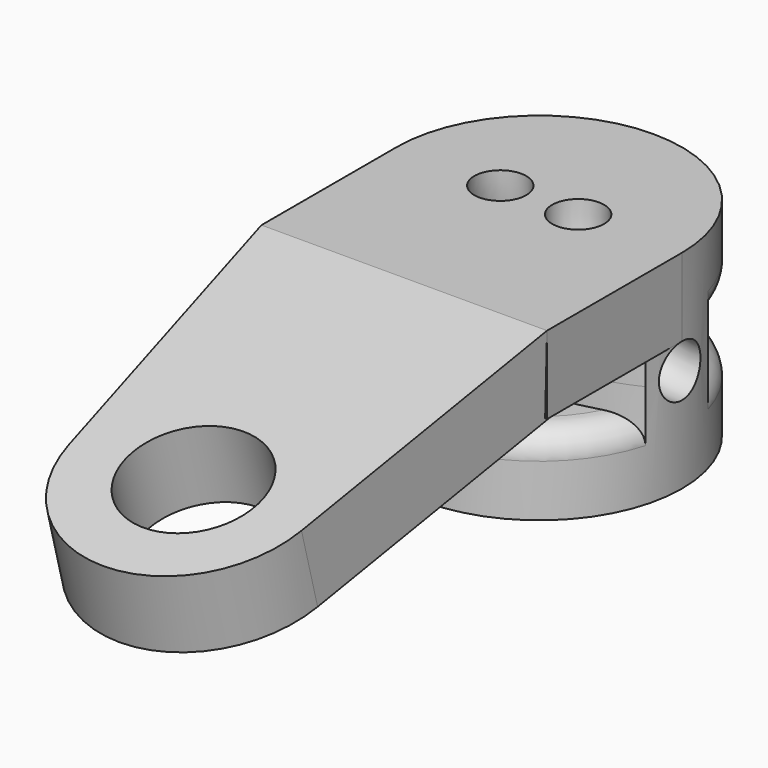
from build123d import *

# Parameters (mm, degrees)
SKETCH_R            = 5.5
PAD_DEPTH           = 4
POCKET_DEPTH        = 1
SKETCH006_W         = 11
SKETCH006_H         = 6.5
PAD001_DEPTH        = 3
PAD002_DEPTH        = 3
SKETCH004_R         = 1
MIRROREDSKETCH003_R = 1
SKETCH008_R         = 2.5
POCKET001_DEPTH     = 3
FILLET_R            = 1


with BuildPart() as part:
    # Sketch → Pad (new body, symmetric)
    with BuildSketch(Plane.XY):
        Circle(SKETCH_R)
    extrude(amount=PAD_DEPTH, both=True)

    # Sketch002 → Pocket (cut, symmetric)
    with BuildSketch(Plane.XY):
        with BuildLine():
            ThreePointArc((-5.291503, -1.5), (0, -5.5), (5.291503, -1.5))
            add(Edge.make_bspline(
                [(-5.291503, -1.5), (0, -4.166667), (5.291503, -1.5)],
                knots=[3.785094, 3.785094, 3.785094, 5.639684, 5.639684, 5.639684], degree=2, weights=[1, 0.6, 1]))
        make_face()
        with BuildLine():
            ThreePointArc((5.291503, 1.5), (0, 5.5), (-5.291503, 1.5))
            add(Edge.make_bspline(
                [(5.291503, 1.5), (0, 4.166667), (-5.291503, 1.5)],
                knots=[0.643501, 0.643501, 0.643501, 2.498092, 2.498092, 2.498092], degree=2, weights=[1, 0.6, 1]))
        make_face()
    extrude(amount=POCKET_DEPTH, both=True, mode=Mode.SUBTRACT)

    # Sketch006 (on DatumPlane) → Pad001 (join)
    with BuildSketch(Plane.XY.offset(4)):
        with Locations((0, -3.25)):
            Rectangle(SKETCH006_W, SKETCH006_H)
    extrude(amount=-PAD001_DEPTH)

    # Sketch007 (on DatumPlane) → Pad002 (join)
    with BuildSketch(Plane(origin=(0, -6.5, 4), x_dir=(1, 0, 0), z_dir=(0, -0.258819, 0.965926))):
        with BuildLine():
            Line((-5.5, 0), (-4.48051, -10.918363))
            ThreePointArc((-4.48051, -10.918363), (0, -15), (4.48051, -10.918363))
            Line((4.48051, -10.918363), (5.5, 0))
            Line((5.5, 0), (-5.5, 0))
        make_face()
    extrude(amount=-PAD002_DEPTH)

    # SubtractivePipe: sweep along a path in MirroredSketch002
    with BuildLine(Plane.XZ) as subtractivepipe_path:
        ThreePointArc((-5.5, 0), (-2.671573, 1.171573), (-1.5, 4))
    # Sketch004 (on DatumPlane) → SubtractivePipe (sweep, cut)
    with BuildSketch(Plane.XY.offset(4)):
        with Locations((-1.5, 0)):
            Circle(SKETCH004_R)
    sweep(path=subtractivepipe_path.line, mode=Mode.SUBTRACT)

    # SubtractivePipe001: sweep along a path in Sketch003
    with BuildLine(Plane.XZ) as subtractivepipe001_path:
        ThreePointArc((1.5, 4), (2.671573, 1.171573), (5.5, 0))
    # MirroredSketch003 → SubtractivePipe001 (sweep, cut)
    with BuildSketch(Plane.XY.offset(4)):
        with Locations((1.5, 0)):
            Circle(MIRROREDSKETCH003_R)
    sweep(path=subtractivepipe001_path.line, mode=Mode.SUBTRACT)

    # Sketch008 (on DatumPlane) → Pocket001 (cut)
    with BuildSketch(Plane(origin=(0, -6.5, 4), x_dir=(1, 0, 0), z_dir=(0, -0.258819, 0.965926))):
        with Locations((0, -10.5)):
            Circle(SKETCH008_R)
    extrude(amount=-POCKET001_DEPTH, mode=Mode.SUBTRACT)

    # Fillet
    fillet_edges = [part.edges().sort_by_distance(p)[0] for p in [
        (0, 5.5, -1),
        (0, 5.5, 1),
        (0, -5.5, -1),
    ]]
    fillet(fillet_edges, radius=FILLET_R)


solid = part.part
